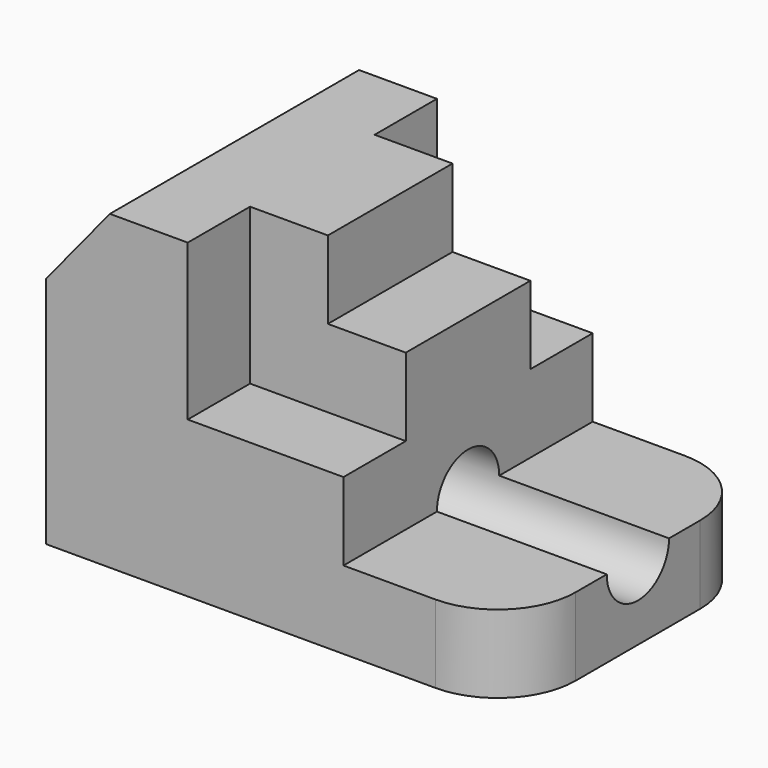
from build123d import *

# Parameters (mm, degrees)
F1_DEPTH = 50.8
F3_DEPTH = 12.7
F5_DEPTH = 12.7
F7_DEPTH = 76.201
F8_R     = 12.7


with BuildPart() as f1:
    # F0 (on Front) → F1 (new body)
    with BuildSketch(Plane.XZ):
        Polygon((0, 38.1), (0, 0), (76.2, 0), (76.2, 12.7), (48.502727, 12.7), (48.502727, 38.1), (35.802727, 38.1), (35.802727, 50.8), (10.402727, 50.8), align=None)
    extrude(amount=F1_DEPTH)

    # F2 (on face) → F3 (cut)
    with BuildSketch(Plane.XZ.offset(50.8)):
        Polygon((35.802727, 50.8), (23.102727, 50.8), (23.102727, 25.400003), (48.502727, 25.4), (48.502727, 38.1), (35.802727, 38.1), align=None)
    extrude(amount=-F3_DEPTH, mode=Mode.SUBTRACT)

    # F4 (on face) → F5 (cut)
    with BuildSketch(Plane(origin=(0, 0, 0), x_dir=(-1, 0, 0), z_dir=(0, 1, 0))):
        Polygon((-23.102727, 25.4), (-23.102727, 50.8), (-35.802727, 50.8), (-35.802727, 38.1), (-48.502727, 38.1), (-48.502727, 25.4), align=None)
    extrude(amount=-F5_DEPTH, mode=Mode.SUBTRACT)

    # F6 (on face) → F7 (cut, through all)
    with BuildSketch(Plane.YZ.offset(76.2)):
        with BuildLine():
            ThreePointArc((-31.75, 12.7), (-25.4, 6.35), (-19.05, 12.7))
            Line((-19.05, 12.7), (-31.75, 12.7))
        make_face()
        with BuildLine():
            Line((-31.75, 12.7), (-19.05, 12.7))
            ThreePointArc((-19.05, 12.7), (-25.4, 19.05), (-31.75, 12.7))
        make_face()
    extrude(amount=-F7_DEPTH, mode=Mode.SUBTRACT)

    # F8
    f8_edges = [f1.edges().sort_by_distance(p)[0] for p in [
        (76.2, -50.8, 6.35),
        (76.2, 0, 6.35),
    ]]
    fillet(f8_edges, radius=F8_R)


solid = f1.part
